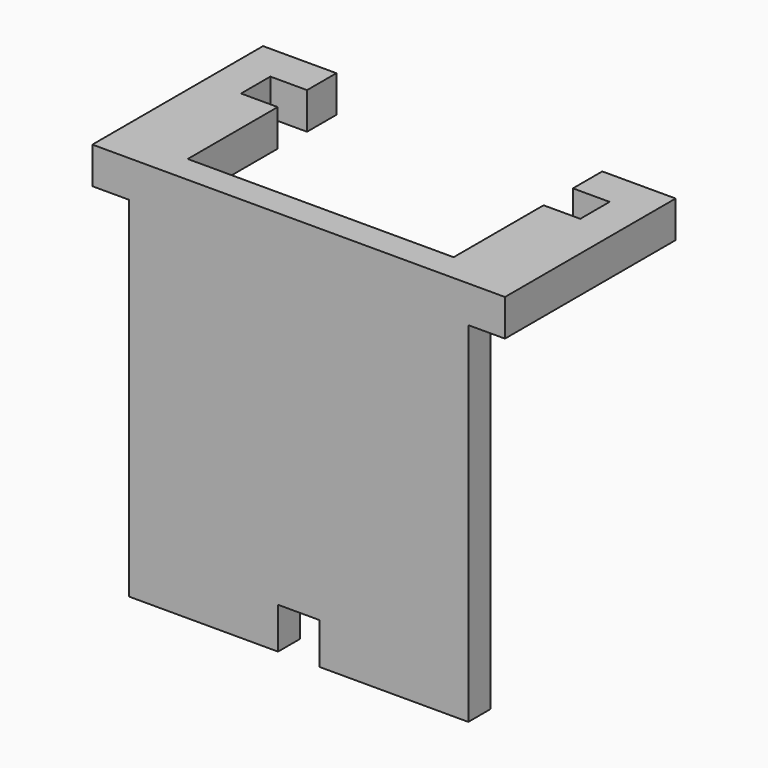
from build123d import *

# Parameters (mm, degrees)
F1_DEPTH = 3
F3_START = -14.5
F2_W     = 12.2653646395
F2_H     = 4
F3_DEPTH = 4
F5_START = 17.05
F5_DEPTH = 4


with BuildPart() as f1:
    # F0 (on Front) → F1 (new body)
    with BuildSketch(Plane.XZ):
        Polygon((18.5, 21.05), (-18.5, 21.05), (-18.5, -21.05), (-2.25, -21.05), (-2.25, -16.55), (2.25, -16.55), (2.25, -21.05), (18.5, -21.05), align=None)
    extrude(amount=F1_DEPTH)

    # F2 (on Right) → F3 (join)
    with BuildSketch(Plane.YZ.offset(F3_START)):
        with Locations((6.1326823197, 19.05)):
            Rectangle(F2_W, F2_H)
    extrude(amount=-F3_DEPTH)

    # F4 (on Top) → F5 (join)
    with BuildSketch(Plane.XY.offset(F5_START)):
        Polygon((-22.5, -3), (-18.5, -3), (-18.5, 16.2653646395), (-14.5, 16.2653646395), (-14.5, 20.2653646395), (-22.5, 20.2653646395), align=None)
    extrude(amount=F5_DEPTH)

    # F6: F1 across plane


with BuildPart() as f1_1:
    add(f1.part)
    add(f1.part.mirror(Plane.YZ))


solid = f1_1.part
